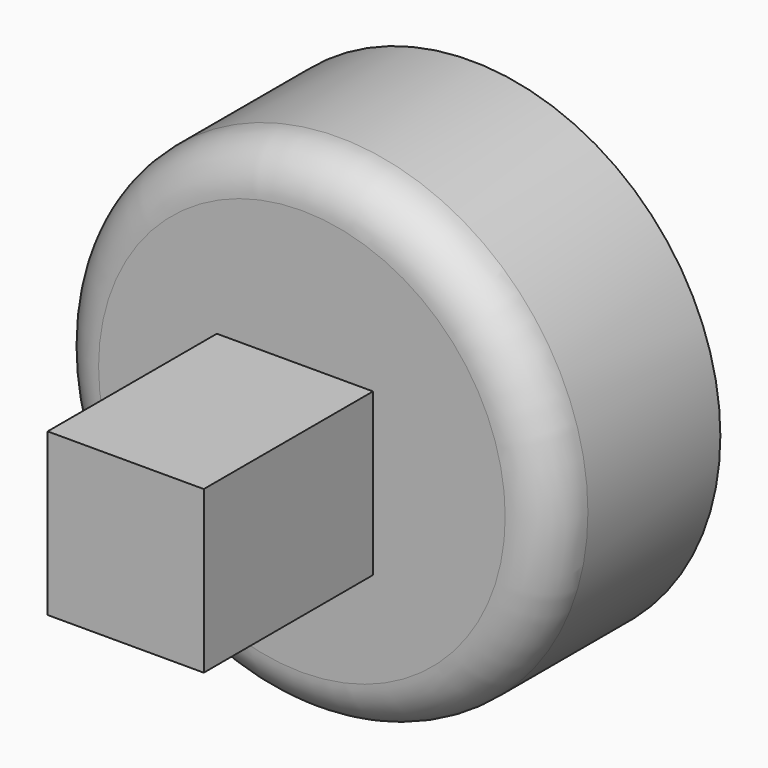
from build123d import *

# Parameters (mm, degrees)
F0_R     = 29.935911
F1_DEPTH = 25.4
F2_R     = 5.518892
F3_W     = 18.751926
F3_H     = 19.416006
F4_DEPTH = 25.4


with BuildPart() as f1:
    # F0 (on Front) → F1 (new body)
    with BuildSketch(Plane.XZ):
        with Locations((-61.485115, 39.142173)):
            Circle(F0_R)
    extrude(amount=F1_DEPTH)

    # F2
    f2_edges = [f1.edges().sort_by_distance(p)[0] for p in [
        (-91.421026, -25.4, 39.142173),
    ]]
    fillet(f2_edges, radius=F2_R)

    # F3 (on face) → F4 (join)
    with BuildSketch(Plane.XZ.offset(25.4)):
        with Locations((-62.324103, 37.501703)):
            Rectangle(F3_W, F3_H)
    extrude(amount=F4_DEPTH)


solid = f1.part
